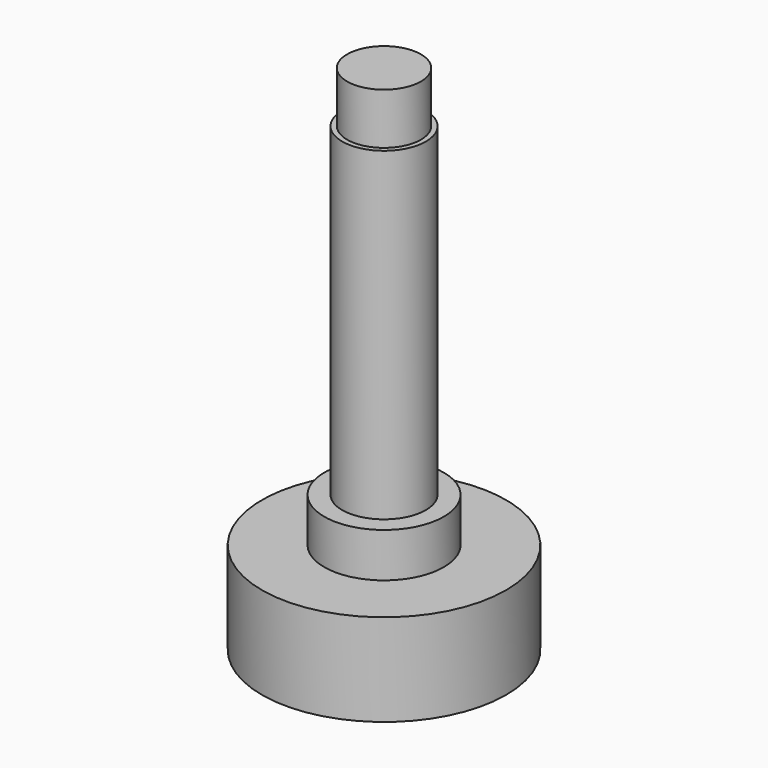
from build123d import *

# Parameters (mm, degrees)
F0_R     = 1.08
F1_DEPTH = 15
F0_R_2   = 1.225
F2_DEPTH = 13.5
F0_R_3   = 1.75
F3_DEPTH = 4
F0_R_4   = 3.575
F4_DEPTH = 2.7


with BuildPart() as f1:
    # F0 (on Top) → F1 (new body)
    with BuildSketch(Plane.XY):
        Circle(F0_R)
    extrude(amount=F1_DEPTH)

    # F0 (on Top) → F2 (join)
    with BuildSketch(Plane.XY):
        Circle(F0_R_2)
        Circle(F0_R, mode=Mode.SUBTRACT)
    extrude(amount=F2_DEPTH)

    # F0 (on Top) → F3 (join)
    with BuildSketch(Plane.XY):
        Circle(F0_R_3)
        Circle(F0_R_2, mode=Mode.SUBTRACT)
    extrude(amount=F3_DEPTH)

    # F0 (on Top) → F4 (join)
    with BuildSketch(Plane.XY):
        Circle(F0_R_4)
        Circle(F0_R_3, mode=Mode.SUBTRACT)
    extrude(amount=F4_DEPTH)


solid = f1.part
